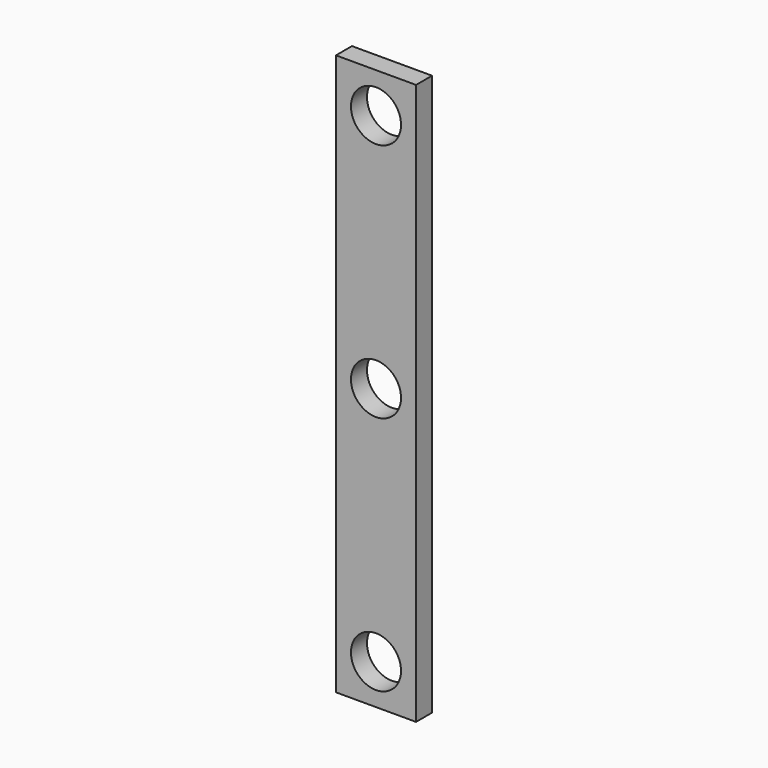
from build123d import *

# Parameters (mm, degrees)
F0_W     = 40
F0_H     = 280
F0_R     = 12.5
F1_DEPTH = 5


with BuildPart() as f1:
    # F0 (on Front) → F1 (new body, symmetric)
    with BuildSketch(Plane.XZ):
        Rectangle(F0_W, F0_H)
        with Locations((0, -120)):
            Circle(F0_R, mode=Mode.SUBTRACT)
        Circle(F0_R, mode=Mode.SUBTRACT)
        with Locations((0, 120)):
            Circle(F0_R, mode=Mode.SUBTRACT)
    extrude(amount=F1_DEPTH, both=True)


solid = f1.part
